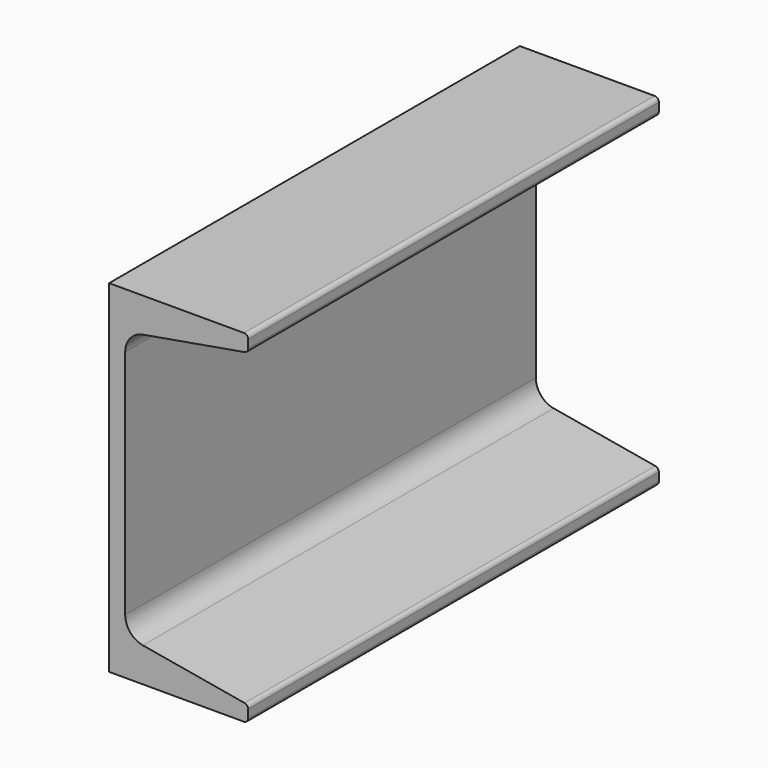
from build123d import *

# Parameters (mm, degrees)
F1_DEPTH = 152.4


with BuildPart() as f1:
    # F0 (on Front) → F1 (new body)
    with BuildSketch(Plane.XZ):
        with BuildLine():
            Line((0, 101.6), (0, 0))
            Line((0, 0), (40.005, 0))
            ThreePointArc((40.005, 0), (40.903026, 0.371974), (41.275, 1.27))
            Line((41.275, 1.27), (41.275, 3.694307))
            ThreePointArc((41.275, 3.694307), (40.97692, 4.511786), (40.222603, 4.945526))
            Line((40.222603, 4.945526), (10.024484, 10.197372))
            ThreePointArc((10.024484, 10.197372), (6.252901, 12.366072), (4.7625, 16.453467))
            Line((4.7625, 16.453467), (4.7625, 85.146533))
            ThreePointArc((4.7625, 85.146533), (6.252901, 89.233928), (10.024484, 91.402628))
            Line((10.024484, 91.402628), (40.222603, 96.654474))
            ThreePointArc((40.222603, 96.654474), (40.97692, 97.088214), (41.275, 97.905693))
            Line((41.275, 97.905693), (41.275, 100.33))
            ThreePointArc((41.275, 100.33), (40.903026, 101.228026), (40.005, 101.6))
            Line((40.005, 101.6), (0, 101.6))
        make_face()
    extrude(amount=F1_DEPTH)


solid = f1.part
